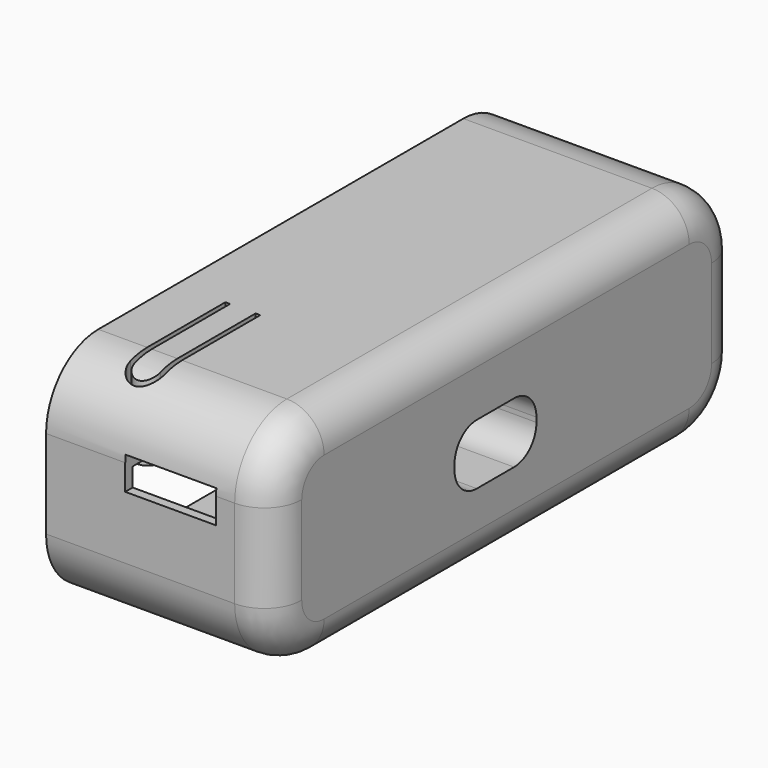
from build123d import *

# Parameters (mm, degrees)
PAD002_DEPTH    = 89
FILLET002_R     = 7
PAD001_DEPTH    = 31.5
FILLET001_R     = 7
FILLET003_R     = 4
POCKET_DEPTH    = 22
SKETCH006_W     = 9.75
SKETCH006_H     = 9.1272
POCKET001_DEPTH = 3.5
SKETCH007_W     = 21
SKETCH007_H     = 2.5
POCKET002_DEPTH = 18
POCKET003_DEPTH = 25
SKETCH009_W     = 6
SKETCH009_H     = 11
POCKET004_DEPTH = 10
POCKET005_DEPTH = 50
SKETCH011_R     = 1.37
PAD003_DEPTH    = 1.2


with BuildPart() as obj1:
    # Sketch004 → Pad002 (new body)
    with BuildSketch(Plane.YZ):
        with BuildLine():
            Line((-31.5, 5.75), (-31.5, -5.75))
            ThreePointArc((-31.5, -5.75), (-29.7426406871, -9.9926406871), (-25.5, -11.75))
            Line((-25.5, -11.75), (25.5, -11.75))
            ThreePointArc((25.5, -11.75), (29.7426406871, -9.9926406871), (31.5, -5.75))
            Line((31.5, -5.75), (31.5, 5.75))
            ThreePointArc((31.5, 5.75), (29.7426406871, 9.9926406871), (25.5, 11.75))
            Line((25.5, 11.75), (-25.5, 11.75))
            ThreePointArc((-25.5, 11.75), (-29.7426406871, 9.9926406871), (-31.5, 5.75))
        make_face()
    extrude(amount=-PAD002_DEPTH)

    # Fillet002
    fillet002_edges = [obj1.edges().sort_by_distance(p)[0] for p in [
        (0, 0, 11.75),
    ]]
    fillet(fillet002_edges, radius=FILLET002_R)


with BuildPart() as obj1_1:
    # Body002 placement: moved
    add(obj1.part.moved(Location((0.5, 0, 0))))


with BuildPart() as cut:
    # Sketch002 → Pad001 (new body, symmetric)
    with BuildSketch(Plane.XZ):
        Polygon((-4.25, 11.75), (0.5, 11.75), (20, 11.75), (20, -11.75), (0.5, -11.75), (-4.25, -11.75), align=None)
    extrude(amount=PAD001_DEPTH, both=True)

    # Fillet001
    fillet001_edges = [cut.edges().sort_by_distance(p)[0] for p in [
        (7.875, -31.5, 11.75),
        (7.875, -31.5, -11.75),
        (7.875, 31.5, -11.75),
        (7.875, 31.5, 11.75),
    ]]
    fillet(fillet001_edges, radius=FILLET001_R)

    # Fillet003
    fillet003_edges = [cut.edges().sort_by_distance(p)[0] for p in [
        (20, 0, 11.75),
        (20, 29.449747, 9.699747),
        (20, -29.449747, 9.699747),
        (20, 31.5, 0),
        (20, -31.5, 0),
        (20, 29.449747, -9.699747),
        (20, -29.449747, -9.699747),
        (20, 0, -11.75),
    ]]
    fillet(fillet003_edges, radius=FILLET003_R)

    # Sketch005 → Pocket (cut)
    with BuildSketch(Plane.YZ.offset(-5)):
        Polygon((-30.5, 4), (-30.5, -6), (-11.004019, -6), (-8.25, -9.25), (7, -9.25), (8.50015, -6), (27.5, -6), (27.5, 4), (6.25, 4), (6.25, -6), (-7.75, -6), (-7.75, 4), align=None)
    extrude(amount=POCKET_DEPTH, mode=Mode.SUBTRACT)

    # Sketch006 → Pocket001 (cut)
    with BuildSketch(Plane.XY.offset(2)):
        with Locations((9.125, -27.4364)):
            Rectangle(SKETCH006_W, SKETCH006_H)
    extrude(amount=POCKET001_DEPTH, mode=Mode.SUBTRACT)

    # Sketch007 → Pocket002 (cut)
    with BuildSketch(Plane.YZ):
        with Locations((-18, 0.75)):
            Rectangle(SKETCH007_W, SKETCH007_H)
    extrude(amount=POCKET002_DEPTH, mode=Mode.SUBTRACT)

    # Sketch008 → Pocket003 (cut, symmetric)
    with BuildSketch(Plane.YZ):
        with BuildLine():
            Line((-7, -0.2500366202), (-7, -0.7500366202))
            ThreePointArc((-7, -0.7500366202), (-6.1213203436, -2.8713569637), (-4, -3.7500366202))
            Line((-4, -3.7500366202), (1, -3.7500366202))
            ThreePointArc((1, -3.7500366202), (3.1213203436, -2.8713569637), (4, -0.7500366202))
            Line((4, -0.7500366202), (4, -0.2500366202))
            ThreePointArc((4, -0.2500366202), (3.1213203436, 1.8712837234), (1, 2.7499633798))
            Line((1, 2.7499633798), (-4, 2.7499633798))
            ThreePointArc((-4, 2.7499633798), (-6.1213203436, 1.8712837234), (-7, -0.2500366202))
        make_face()
    extrude(amount=POCKET003_DEPTH, both=True, mode=Mode.SUBTRACT)

    # Sketch009 → Pocket004 (cut)
    with BuildSketch(Plane.XY):
        with Locations((3, -19.5)):
            Rectangle(SKETCH009_W, SKETCH009_H)
    extrude(amount=POCKET004_DEPTH, mode=Mode.SUBTRACT)

    # Sketch010 → Pocket005 (cut)
    with BuildSketch(Plane.XY):
        with BuildLine():
            Line((1.5, -14), (1.5, -26.7455997787))
            ThreePointArc((1.5, -26.7455997787), (2.8751524647, -28.1252173395), (4.2499996315, -26.7452955363))
            Line((4.2499996315, -26.7452955363), (4.2499996315, -14))
            Line((4.7499996315, -14), (4.2499996315, -14))
            Line((4.7499996315, -26.7455524659), (4.7499996315, -14))
            ThreePointArc((1, -26.7455524975), (2.8749998316, -28.6205518327), (4.7499996315, -26.7455524659))
            Line((1, -14), (1, -26.7455524975))
            Line((1.5, -14), (1, -14))
        make_face()
    extrude(amount=POCKET005_DEPTH, mode=Mode.SUBTRACT)

    # Sketch011 → Pad003 (join)
    with BuildSketch(Plane.XY.offset(4)):
        with Locations((2.875, -26.75)):
            Circle(SKETCH011_R)
    extrude(amount=-PAD003_DEPTH)

    # Cut: cut obj1
    add(obj1_1.part, mode=Mode.SUBTRACT)


solid = cut.part
